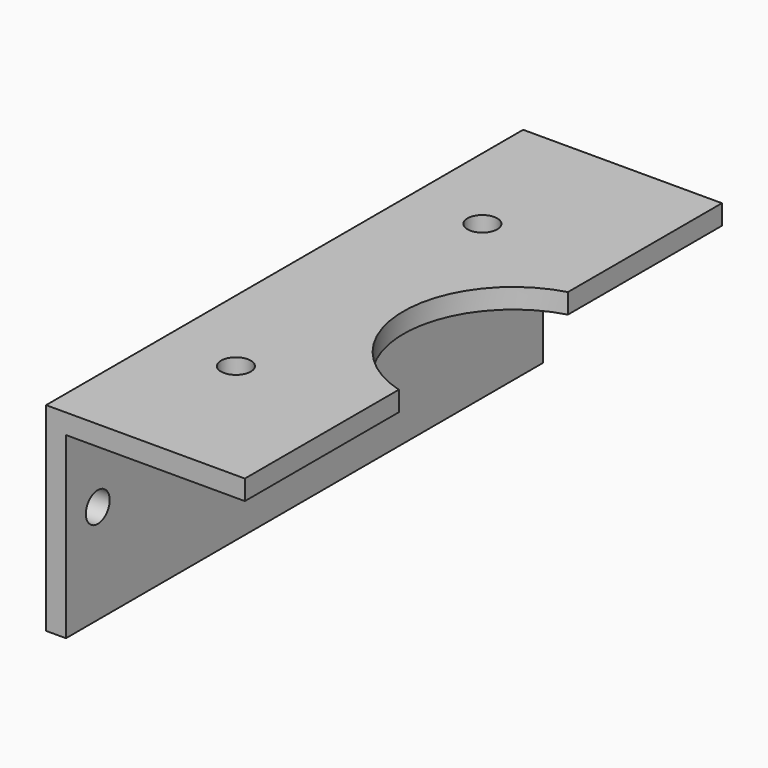
from build123d import *

# Parameters (mm, degrees)
PAD_DEPTH       = 30
PAD_DEPTH_BACK  = 30
SKETCH001_R     = 11.05
SKETCH001_R_2   = 1.5
POCKET_DEPTH    = 5.54
SKETCH002_R     = 1.5
POCKET001_DEPTH = 20.001


with BuildPart() as part:
    # Sketch → Pad (new body, two sides)
    with BuildSketch(Plane.XZ) as pad_sk:
        Polygon((-10, -20), (-10, 0), (10, 0), (10, -2), (-8, -2), (-8, -20), align=None)
    extrude(amount=PAD_DEPTH)
    extrude(pad_sk.sketch, amount=-PAD_DEPTH_BACK)

    # Sketch001 (on Face4 of Pad) → Pocket (cut)
    with BuildSketch(Plane(origin=(13, 0, -2), x_dir=(1, 0, 0), z_dir=(0, 0, -1))):
        Circle(SKETCH001_R)
        with Locations((-15.5, 15.5)):
            Circle(SKETCH001_R_2)
        with Locations((15.5, 15.5)):
            Circle(SKETCH001_R_2)
        with Locations((15.5, -15.5)):
            Circle(SKETCH001_R_2)
        with Locations((-15.5, -15.5)):
            Circle(SKETCH001_R_2)
    extrude(amount=-POCKET_DEPTH, mode=Mode.SUBTRACT)

    # Sketch002 (on Face1 of Pocket) → Pocket001 (cut, through all)
    with BuildSketch(Plane(origin=(-10, 0, 0), x_dir=(0, 0, -1), z_dir=(-1, 0, 0))):
        with Locations((10, 26)):
            Circle(SKETCH002_R)
        with Locations((10, -26)):
            Circle(SKETCH002_R)
    extrude(amount=-POCKET001_DEPTH, mode=Mode.SUBTRACT)


solid = part.part
